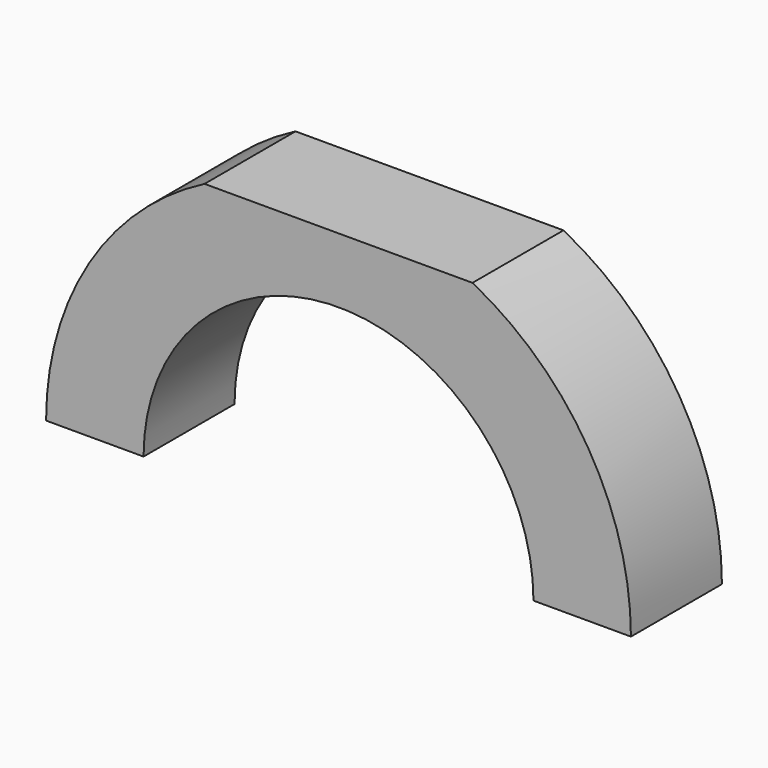
from build123d import *

# Parameters (mm, degrees)
F1_DEPTH      = 10
F1_DEPTH_BACK = 25


with BuildPart() as f1:
    # F0 (on Front) → F1 (new body, two sides)
    with BuildSketch(Plane.XZ) as f1_sk:
        with BuildLine():
            ThreePointArc((-60, 0), (0, 60), (60, 0))
            Line((60, 0), (90, 0))
            ThreePointArc((90, 0), (76.846584, 46.846584), (41.231056, 80))
            Line((41.231056, 80), (-41.231056, 80))
            ThreePointArc((-41.231056, 80), (-76.846584, 46.846584), (-90, 0))
            Line((-90, 0), (-60, 0))
        make_face()
    extrude(amount=F1_DEPTH)
    extrude(f1_sk.sketch, amount=-F1_DEPTH_BACK)


solid = f1.part
